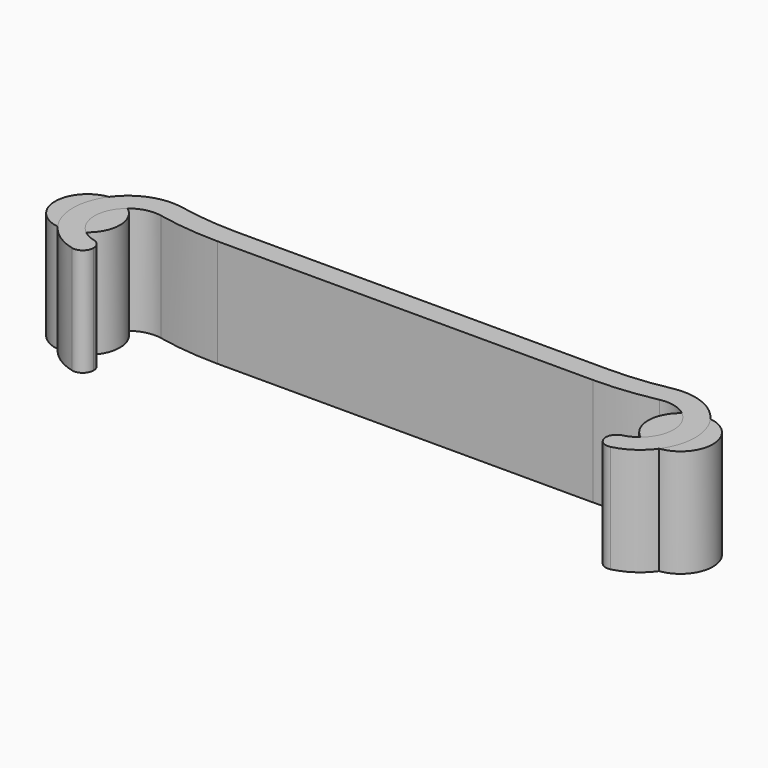
from build123d import *

# Parameters (mm, degrees)
SKETCH_R     = 3
PAD_DEPTH    = 10
PAD001_DEPTH = 10
FILLET_R     = 28
FILLET001_R  = 0.99


with BuildPart() as pad:
    # Sketch → Pad (new body)
    with BuildSketch(Plane.XY):
        with Locations((-27.5, 0)):
            Circle(SKETCH_R)
        with Locations((27.5, 0)):
            Circle(SKETCH_R)
    extrude(amount=PAD_DEPTH)


with BuildPart() as fillet001:
    # Sketch001 → Pad001 (new body)
    with BuildSketch(Plane.XY):
        with BuildLine():
            ThreePointArc((-21.844511, 2.445222), (-26.681739, 1.007425), (-23.75, -3.1))
            Line((-23.75, -3.1), (-23.75, -5.1))
            ThreePointArc((-21.25, 4.445222), (-28.683591, 1.292162), (-23.75, -5.1))
            Line((-21.25, 4.445222), (21.25, 4.445222))
            ThreePointArc((23.75, -5.1), (28.683591, 1.292162), (21.25, 4.445222))
            Line((23.75, -5.1), (23.75, -3.1))
            ThreePointArc((23.75, -3.1), (26.681739, 1.007425), (21.844511, 2.445222))
            Line((-21.844511, 2.445222), (21.844511, 2.445222))
        make_face()
    extrude(amount=PAD001_DEPTH)

    # Fillet
    fillet_edges = [fillet001.edges().sort_by_distance(p)[0] for p in [
        (21.25, 4.445222, 5),
        (-21.25, 4.445222, 5),
        (-21.844511, 2.445222, 5),
        (21.844511, 2.445222, 5),
    ]]
    fillet(fillet_edges, radius=FILLET_R)

    # Fillet001
    fillet001_edges = [fillet001.edges().sort_by_distance(p)[0] for p in [
        (-23.75, -5.1, 5),
        (-23.75, -3.1, 5),
        (23.75, -3.1, 5),
        (23.75, -5.1, 5),
    ]]
    fillet(fillet001_edges, radius=FILLET001_R)


solid = Compound([pad.part, fillet001.part])
